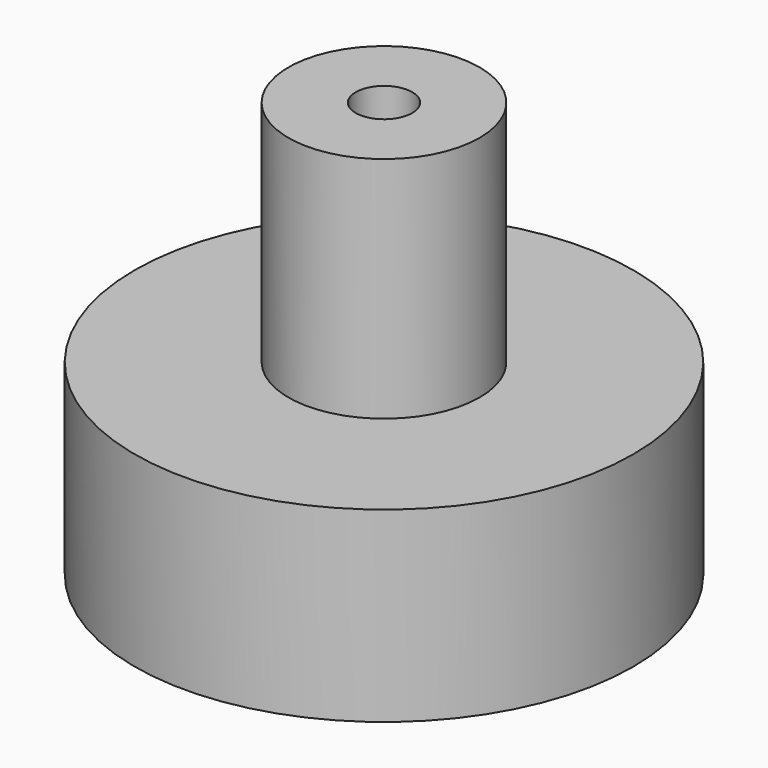
from build123d import *

# Parameters (mm, degrees)
PAD_DEPTH         = 3.5
CYLINDER_R        = 6
CYLINDER_DEPTH    = 4.5
CYLINDER001_R     = 2.3
CYLINDER001_DEPTH = 19
CYLINDER002_R     = 0.68
CYLINDER002_DEPTH = 23
BOX_W             = 10
BOX_H             = 10
BOX_DEPTH         = 12


with BuildPart() as body:
    # InvoluteGear → Pad (new body)
    with BuildSketch(Plane.XY):
        with BuildLine():
            add(Edge.make_bspline(
                [(2.683571, -0.321329), (2.575875, -0.238209), (2.484992, -0.192478), (2.420274, -0.167492)],
                knots=[0, 0, 0, 0, 1, 1, 1, 1], degree=3))
            add(Edge.make_bspline(
                [(2.420274, -0.167492), (2.369731, -0.148109), (2.336569, -0.141738), (2.322395, -0.139706)],
                knots=[0, 0, 0, 0, 1, 1, 1, 1], degree=3))
            ThreePointArc((2.322395, -0.139706), (2.318151, -9e-06), (2.322302, 0.139691))
            add(Edge.make_bspline(
                [(2.322302, 0.139691), (2.336569, 0.141738), (2.369731, 0.148109), (2.420274, 0.167492)],
                knots=[0, 0, 0, 0, 1, 1, 1, 1], degree=3))
            add(Edge.make_bspline(
                [(2.420274, 0.167492), (2.484992, 0.192478), (2.575875, 0.238209), (2.683571, 0.321329)],
                knots=[0, 0, 0, 0, 1, 1, 1, 1], degree=3))
            ThreePointArc((2.683571, 0.321329), (2.727109, 0.411046), (2.659061, 0.483943))
            add(Edge.make_bspline(
                [(2.659061, 0.483943), (2.53165, 0.531626), (2.431324, 0.548538), (2.362117, 0.553337)],
                knots=[0, 0, 0, 0, 1, 1, 1, 1], degree=3))
            add(Edge.make_bspline(
                [(2.362117, 0.553337), (2.308106, 0.556961), (2.274539, 0.553275), (2.260396, 0.551038)],
                knots=[0, 0, 0, 0, 1, 1, 1, 1], degree=3))
            ThreePointArc((2.260396, 0.551038), (2.215164, 0.683278), (2.177955, 0.817995))
            add(Edge.make_bspline(
                [(2.177955, 0.817995), (2.190983, 0.824157), (2.220794, 0.840019), (2.263378, 0.873439)],
                knots=[0, 0, 0, 0, 1, 1, 1, 1], degree=3))
            add(Edge.make_bspline(
                [(2.263378, 0.873439), (2.317857, 0.916391), (2.391223, 0.986879), (2.469634, 1.09805)],
                knots=[0, 0, 0, 0, 1, 1, 1, 1], degree=3))
            ThreePointArc((2.469634, 1.09805), (2.484793, 1.196613), (2.398281, 1.246215))
            add(Edge.make_bspline(
                [(2.398281, 1.246215), (2.262476, 1.254224), (2.161623, 1.240813), (2.094076, 1.225)],
                knots=[0, 0, 0, 0, 1, 1, 1, 1], degree=3))
            add(Edge.make_bspline(
                [(2.094076, 1.225), (2.041396, 1.212543), (2.010407, 1.199127), (1.997552, 1.192821)],
                knots=[0, 0, 0, 0, 1, 1, 1, 1], degree=3))
            ThreePointArc((1.997552, 1.192821), (1.915351, 1.305853), (1.840086, 1.423617))
            add(Edge.make_bspline(
                [(1.840086, 1.423617), (1.85072, 1.433345), (1.87453, 1.45729), (1.905372, 1.501777)],
                knots=[0, 0, 0, 0, 1, 1, 1, 1], degree=3))
            add(Edge.make_bspline(
                [(1.905372, 1.501777), (1.94477, 1.558878), (1.9941, 1.64786), (2.036259, 1.777204)],
                knots=[0, 0, 0, 0, 1, 1, 1, 1], degree=3))
            ThreePointArc((2.036259, 1.777204), (2.021693, 1.875857), (1.924404, 1.897755))
            add(Edge.make_bspline(
                [(1.924404, 1.897755), (1.792272, 1.865379), (1.699852, 1.822837), (1.639967, 1.787816)],
                knots=[0, 0, 0, 0, 1, 1, 1, 1], degree=3))
            add(Edge.make_bspline(
                [(1.639967, 1.787816), (1.593299, 1.760385), (1.567642, 1.738431), (1.557216, 1.728616)],
                knots=[0, 0, 0, 0, 1, 1, 1, 1], degree=3))
            ThreePointArc((1.557216, 1.728616), (1.44535, 1.812397), (1.338717, 1.902745))
            add(Edge.make_bspline(
                [(1.338717, 1.902745), (1.346011, 1.915175), (1.361706, 1.945075), (1.378065, 1.996676)],
                knots=[0, 0, 0, 0, 1, 1, 1, 1], degree=3))
            add(Edge.make_bspline(
                [(1.378065, 1.996676), (1.398882, 2.062853), (1.419792, 2.162422), (1.421954, 2.298445)],
                knots=[0, 0, 0, 0, 1, 1, 1, 1], degree=3))
            ThreePointArc((1.421954, 2.298445), (1.378956, 2.388422), (1.279535, 2.380671))
            add(Edge.make_bspline(
                [(1.279535, 2.380671), (1.162816, 2.310787), (1.087042, 2.242893), (1.040139, 2.191777)],
                knots=[0, 0, 0, 0, 1, 1, 1, 1], degree=3))
            add(Edge.make_bspline(
                [(1.040139, 2.191777), (1.003631, 2.15181), (0.985585, 2.123268), (0.978515, 2.110816)],
                knots=[0, 0, 0, 0, 1, 1, 1, 1], degree=3))
            ThreePointArc((0.978515, 2.110816), (0.846924, 2.157902), (0.718398, 2.212805))
            add(Edge.make_bspline(
                [(0.718398, 2.212805), (0.721704, 2.226833), (0.727889, 2.26003), (0.728311, 2.314161)],
                knots=[0, 0, 0, 0, 1, 1, 1, 1], degree=3))
            add(Edge.make_bspline(
                [(0.728311, 2.314161), (0.728697, 2.383533), (0.71933, 2.484842), (0.681302, 2.61546)],
                knots=[0, 0, 0, 0, 1, 1, 1, 1], degree=3))
            ThreePointArc((0.681302, 2.61546), (0.613693, 2.688766), (0.520974, 2.652054))
            add(Edge.make_bspline(
                [(0.520974, 2.652054), (0.430039, 2.550871), (0.377643, 2.463659), (0.347891, 2.400989)],
                knots=[0, 0, 0, 0, 1, 1, 1, 1], degree=3))
            add(Edge.make_bspline(
                [(0.347891, 2.400989), (0.324785, 2.352036), (0.315954, 2.319443), (0.312869, 2.30546)],
                knots=[0, 0, 0, 0, 1, 1, 1, 1], degree=3))
            ThreePointArc((0.312869, 2.30546), (0.173245, 2.311668), (0.034246, 2.326248))
            add(Edge.make_bspline(
                [(0.034246, 2.326248), (0.03327, 2.340627), (0.029395, 2.374173), (0.013843, 2.426023)],
                knots=[0, 0, 0, 0, 1, 1, 1, 1], degree=3))
            add(Edge.make_bspline(
                [(0.013843, 2.426023), (-0.006236, 2.492427), (-0.045048, 2.586474), (-0.119887, 2.70008)],
                knots=[0, 0, 0, 0, 1, 1, 1, 1], degree=3))
            ThreePointArc((-0.119887, 2.70008), (-0.206099, 2.750201), (-0.283878, 2.68779))
            add(Edge.make_bspline(
                [(-0.283878, 2.68779), (-0.340949, 2.564299), (-0.365311, 2.465518), (-0.375269, 2.396863)],
                knots=[0, 0, 0, 0, 1, 1, 1, 1], degree=3))
            add(Edge.make_bspline(
                [(-0.375269, 2.396863), (-0.382919, 2.343274), (-0.381751, 2.309526), (-0.380578, 2.295255)],
                knots=[0, 0, 0, 0, 1, 1, 1, 1], degree=3))
            ThreePointArc((-0.380578, 2.295255), (-0.515828, 2.260032), (-0.652949, 2.232993))
            add(Edge.make_bspline(
                [(-0.652949, 2.232993), (-0.65812, 2.246446), (-0.67171, 2.277359), (-0.701854, 2.322322)],
                knots=[0, 0, 0, 0, 1, 1, 1, 1], degree=3))
            add(Edge.make_bspline(
                [(-0.701854, 2.322322), (-0.740615, 2.379857), (-0.805423, 2.458286), (-0.910423, 2.544786)],
                knots=[0, 0, 0, 0, 1, 1, 1, 1], degree=3))
            ThreePointArc((-0.910423, 2.544786), (-1.007579, 2.567269), (-1.063506, 2.484705))
            add(Edge.make_bspline(
                [(-1.063506, 2.484705), (-1.081642, 2.349878), (-1.075805, 2.248305), (-1.065084, 2.179765)],
                knots=[0, 0, 0, 0, 1, 1, 1, 1], degree=3))
            add(Edge.make_bspline(
                [(-1.065084, 2.179765), (-1.056599, 2.126301), (-1.045536, 2.094397), (-1.040208, 2.081106)],
                knots=[0, 0, 0, 0, 1, 1, 1, 1], degree=3))
            ThreePointArc((-1.040208, 2.081106), (-1.159067, 2.007582), (-1.282127, 1.941328))
            add(Edge.make_bspline(
                [(-1.282127, 1.941328), (-1.291033, 1.952659), (-1.313132, 1.978192), (-1.355189, 2.012272)],
                knots=[0, 0, 0, 0, 1, 1, 1, 1], degree=3))
            add(Edge.make_bspline(
                [(-1.355189, 2.012272), (-1.409186, 2.055827), (-1.494233, 2.111669), (-1.620064, 2.163376)],
                knots=[0, 0, 0, 0, 1, 1, 1, 1], degree=3))
            ThreePointArc((-1.620064, 2.163376), (-1.71953, 2.156223), (-1.748637, 2.060842))
            add(Edge.make_bspline(
                [(-1.748637, 2.060842), (-1.726227, 1.92666), (-1.69071, 1.83132), (-1.660262, 1.768985)],
                knots=[0, 0, 0, 0, 1, 1, 1, 1], degree=3))
            add(Edge.make_bspline(
                [(-1.660262, 1.768985), (-1.636396, 1.720398), (-1.61642, 1.693172), (-1.607411, 1.682042)],
                knots=[0, 0, 0, 0, 1, 1, 1, 1], degree=3))
            ThreePointArc((-1.607411, 1.682042), (-1.699318, 1.57675), (-1.797382, 1.477166))
            add(Edge.make_bspline(
                [(-1.797382, 1.477166), (-1.809232, 1.485369), (-1.837875, 1.503254), (-1.88811, 1.523424)],
                knots=[0, 0, 0, 0, 1, 1, 1, 1], degree=3))
            add(Edge.make_bspline(
                [(-1.88811, 1.523424), (-1.952546, 1.549127), (-2.050274, 1.57742), (-2.185756, 1.589741)],
                knots=[0, 0, 0, 0, 1, 1, 1, 1], degree=3))
            ThreePointArc((-2.185756, 1.589741), (-2.278694, 1.553588), (-2.278394, 1.453865))
            add(Edge.make_bspline(
                [(-2.278394, 1.453865), (-2.217428, 1.33225), (-2.155387, 1.251614), (-2.107919, 1.201023)],
                knots=[0, 0, 0, 0, 1, 1, 1, 1], degree=3))
            add(Edge.make_bspline(
                [(-2.107919, 1.201023), (-2.070791, 1.161629), (-2.043678, 1.141501), (-2.031789, 1.13352)],
                knots=[0, 0, 0, 0, 1, 1, 1, 1], degree=3))
            ThreePointArc((-2.031789, 1.13352), (-2.088577, 1.005816), (-2.152932, 0.881752))
            add(Edge.make_bspline(
                [(-2.152932, 0.881752), (-2.166673, 0.886098), (-2.199316, 0.894746), (-2.253263, 0.899212)],
                knots=[0, 0, 0, 0, 1, 1, 1, 1], degree=3))
            add(Edge.make_bspline(
                [(-2.253263, 0.899212), (-2.322413, 0.904781), (-2.424139, 0.903011), (-2.557233, 0.87485)],
                knots=[0, 0, 0, 0, 1, 1, 1, 1], degree=3))
            ThreePointArc((-2.557233, 0.87485), (-2.635386, 0.812909), (-2.605706, 0.717705))
            add(Edge.make_bspline(
                [(-2.605706, 0.717705), (-2.511602, 0.619463), (-2.428549, 0.560697), (-2.368278, 0.526345)],
                knots=[0, 0, 0, 0, 1, 1, 1, 1], degree=3))
            add(Edge.make_bspline(
                [(-2.368278, 0.526345), (-2.321188, 0.499645), (-2.289346, 0.488402), (-2.275633, 0.484281)],
                knots=[0, 0, 0, 0, 1, 1, 1, 1], degree=3))
            ThreePointArc((-2.275633, 0.484281), (-2.292257, 0.345512), (-2.317184, 0.207991))
            add(Edge.make_bspline(
                [(-2.317184, 0.207991), (-2.331596, 0.208093), (-2.365337, 0.206735), (-2.418205, 0.195101)],
                knots=[0, 0, 0, 0, 1, 1, 1, 1], degree=3))
            add(Edge.make_bspline(
                [(-2.418205, 0.195101), (-2.485924, 0.180041), (-2.582608, 0.148365), (-2.701489, 0.082226)],
                knots=[0, 0, 0, 0, 1, 1, 1, 1], degree=3))
            ThreePointArc((-2.701489, 0.082226), (-2.757913, 0), (-2.701489, -0.082226))
            add(Edge.make_bspline(
                [(-2.701489, -0.082226), (-2.582608, -0.148365), (-2.485924, -0.180041), (-2.418205, -0.195101)],
                knots=[0, 0, 0, 0, 1, 1, 1, 1], degree=3))
            add(Edge.make_bspline(
                [(-2.418205, -0.195101), (-2.365337, -0.206735), (-2.331596, -0.208093), (-2.317278, -0.207989)],
                knots=[0, 0, 0, 0, 1, 1, 1, 1], degree=3))
            ThreePointArc((-2.317278, -0.207989), (-2.29226, -0.345493), (-2.275544, -0.484252))
            add(Edge.make_bspline(
                [(-2.275544, -0.484252), (-2.289346, -0.488402), (-2.321188, -0.499645), (-2.368278, -0.526345)],
                knots=[0, 0, 0, 0, 1, 1, 1, 1], degree=3))
            add(Edge.make_bspline(
                [(-2.368278, -0.526345), (-2.428549, -0.560697), (-2.511602, -0.619463), (-2.605706, -0.717705)],
                knots=[0, 0, 0, 0, 1, 1, 1, 1], degree=3))
            ThreePointArc((-2.605706, -0.717705), (-2.635386, -0.812909), (-2.557233, -0.87485))
            add(Edge.make_bspline(
                [(-2.557233, -0.87485), (-2.424139, -0.903011), (-2.322413, -0.904781), (-2.253263, -0.899212)],
                knots=[0, 0, 0, 0, 1, 1, 1, 1], degree=3))
            add(Edge.make_bspline(
                [(-2.253263, -0.899212), (-2.199316, -0.894746), (-2.166673, -0.886098), (-2.153022, -0.881778)],
                knots=[0, 0, 0, 0, 1, 1, 1, 1], degree=3))
            ThreePointArc((-2.153022, -0.881778), (-2.088585, -1.005799), (-2.031713, -1.133466))
            add(Edge.make_bspline(
                [(-2.031713, -1.133466), (-2.043678, -1.141501), (-2.070791, -1.161629), (-2.107919, -1.201023)],
                knots=[0, 0, 0, 0, 1, 1, 1, 1], degree=3))
            add(Edge.make_bspline(
                [(-2.107919, -1.201023), (-2.155387, -1.251614), (-2.217428, -1.33225), (-2.278394, -1.453865)],
                knots=[0, 0, 0, 0, 1, 1, 1, 1], degree=3))
            ThreePointArc((-2.278394, -1.453865), (-2.278694, -1.553588), (-2.185756, -1.589741))
            add(Edge.make_bspline(
                [(-2.185756, -1.589741), (-2.050274, -1.57742), (-1.952546, -1.549127), (-1.88811, -1.523424)],
                knots=[0, 0, 0, 0, 1, 1, 1, 1], degree=3))
            add(Edge.make_bspline(
                [(-1.88811, -1.523424), (-1.837875, -1.503254), (-1.809232, -1.485369), (-1.79746, -1.477217)],
                knots=[0, 0, 0, 0, 1, 1, 1, 1], degree=3))
            ThreePointArc((-1.79746, -1.477217), (-1.699331, -1.576736), (-1.607354, -1.681967))
            add(Edge.make_bspline(
                [(-1.607354, -1.681967), (-1.61642, -1.693172), (-1.636396, -1.720398), (-1.660262, -1.768985)],
                knots=[0, 0, 0, 0, 1, 1, 1, 1], degree=3))
            add(Edge.make_bspline(
                [(-1.660262, -1.768985), (-1.69071, -1.83132), (-1.726227, -1.92666), (-1.748637, -2.060842)],
                knots=[0, 0, 0, 0, 1, 1, 1, 1], degree=3))
            ThreePointArc((-1.748637, -2.060842), (-1.71953, -2.156223), (-1.620064, -2.163376))
            add(Edge.make_bspline(
                [(-1.620064, -2.163376), (-1.494233, -2.111669), (-1.409186, -2.055827), (-1.355189, -2.012272)],
                knots=[0, 0, 0, 0, 1, 1, 1, 1], degree=3))
            add(Edge.make_bspline(
                [(-1.355189, -2.012272), (-1.313132, -1.978192), (-1.291033, -1.952659), (-1.282187, -1.9414)],
                knots=[0, 0, 0, 0, 1, 1, 1, 1], degree=3))
            ThreePointArc((-1.282187, -1.9414), (-1.159083, -2.007573), (-1.040176, -2.081018))
            add(Edge.make_bspline(
                [(-1.040176, -2.081018), (-1.045536, -2.094397), (-1.056599, -2.126301), (-1.065084, -2.179765)],
                knots=[0, 0, 0, 0, 1, 1, 1, 1], degree=3))
            add(Edge.make_bspline(
                [(-1.065084, -2.179765), (-1.075805, -2.248305), (-1.081642, -2.349878), (-1.063506, -2.484705)],
                knots=[0, 0, 0, 0, 1, 1, 1, 1], degree=3))
            ThreePointArc((-1.063506, -2.484705), (-1.007579, -2.567269), (-0.910423, -2.544786))
            add(Edge.make_bspline(
                [(-0.910423, -2.544786), (-0.805423, -2.458286), (-0.740615, -2.379857), (-0.701854, -2.322322)],
                knots=[0, 0, 0, 0, 1, 1, 1, 1], degree=3))
            add(Edge.make_bspline(
                [(-0.701854, -2.322322), (-0.67171, -2.277359), (-0.65812, -2.246446), (-0.652985, -2.23308)],
                knots=[0, 0, 0, 0, 1, 1, 1, 1], degree=3))
            ThreePointArc((-0.652985, -2.23308), (-0.515846, -2.260028), (-0.380573, -2.295162))
            add(Edge.make_bspline(
                [(-0.380573, -2.295162), (-0.381751, -2.309526), (-0.382919, -2.343274), (-0.375269, -2.396863)],
                knots=[0, 0, 0, 0, 1, 1, 1, 1], degree=3))
            add(Edge.make_bspline(
                [(-0.375269, -2.396863), (-0.365311, -2.465518), (-0.340949, -2.564299), (-0.283878, -2.68779)],
                knots=[0, 0, 0, 0, 1, 1, 1, 1], degree=3))
            ThreePointArc((-0.283878, -2.68779), (-0.206099, -2.750201), (-0.119887, -2.70008))
            add(Edge.make_bspline(
                [(-0.119887, -2.70008), (-0.045048, -2.586474), (-0.006236, -2.492427), (0.013843, -2.426023)],
                knots=[0, 0, 0, 0, 1, 1, 1, 1], degree=3))
            add(Edge.make_bspline(
                [(0.013843, -2.426023), (0.029395, -2.374173), (0.03327, -2.340627), (0.034237, -2.326341)],
                knots=[0, 0, 0, 0, 1, 1, 1, 1], degree=3))
            ThreePointArc((0.034237, -2.326341), (0.173226, -2.311669), (0.312846, -2.30537))
            add(Edge.make_bspline(
                [(0.312846, -2.30537), (0.315954, -2.319443), (0.324785, -2.352036), (0.347891, -2.400989)],
                knots=[0, 0, 0, 0, 1, 1, 1, 1], degree=3))
            add(Edge.make_bspline(
                [(0.347891, -2.400989), (0.377643, -2.463659), (0.430039, -2.550871), (0.520974, -2.652054)],
                knots=[0, 0, 0, 0, 1, 1, 1, 1], degree=3))
            ThreePointArc((0.520974, -2.652054), (0.613693, -2.688766), (0.681302, -2.61546))
            add(Edge.make_bspline(
                [(0.681302, -2.61546), (0.71933, -2.484842), (0.728697, -2.383533), (0.728311, -2.314161)],
                knots=[0, 0, 0, 0, 1, 1, 1, 1], degree=3))
            add(Edge.make_bspline(
                [(0.728311, -2.314161), (0.727889, -2.26003), (0.721704, -2.226833), (0.718417, -2.212897)],
                knots=[0, 0, 0, 0, 1, 1, 1, 1], degree=3))
            ThreePointArc((0.718417, -2.212897), (0.846907, -2.157909), (0.978467, -2.110736))
            add(Edge.make_bspline(
                [(0.978467, -2.110736), (0.985585, -2.123268), (1.003631, -2.15181), (1.040139, -2.191777)],
                knots=[0, 0, 0, 0, 1, 1, 1, 1], degree=3))
            add(Edge.make_bspline(
                [(1.040139, -2.191777), (1.087042, -2.242893), (1.162816, -2.310787), (1.279535, -2.380671)],
                knots=[0, 0, 0, 0, 1, 1, 1, 1], degree=3))
            ThreePointArc((1.279535, -2.380671), (1.378956, -2.388422), (1.421954, -2.298445))
            add(Edge.make_bspline(
                [(1.421954, -2.298445), (1.419792, -2.162422), (1.398882, -2.062853), (1.378065, -1.996676)],
                knots=[0, 0, 0, 0, 1, 1, 1, 1], degree=3))
            add(Edge.make_bspline(
                [(1.378065, -1.996676), (1.361706, -1.945075), (1.346011, -1.915175), (1.338762, -1.902827)],
                knots=[0, 0, 0, 0, 1, 1, 1, 1], degree=3))
            ThreePointArc((1.338762, -1.902827), (1.445336, -1.812409), (1.557146, -1.728553))
            add(Edge.make_bspline(
                [(1.557146, -1.728553), (1.567642, -1.738431), (1.593299, -1.760385), (1.639967, -1.787816)],
                knots=[0, 0, 0, 0, 1, 1, 1, 1], degree=3))
            add(Edge.make_bspline(
                [(1.639967, -1.787816), (1.699852, -1.822837), (1.792272, -1.865379), (1.924404, -1.897755)],
                knots=[0, 0, 0, 0, 1, 1, 1, 1], degree=3))
            ThreePointArc((1.924404, -1.897755), (2.021693, -1.875857), (2.036259, -1.777204))
            add(Edge.make_bspline(
                [(2.036259, -1.777204), (1.9941, -1.64786), (1.94477, -1.558878), (1.905372, -1.501777)],
                knots=[0, 0, 0, 0, 1, 1, 1, 1], degree=3))
            add(Edge.make_bspline(
                [(1.905372, -1.501777), (1.87453, -1.45729), (1.85072, -1.433345), (1.840153, -1.423682)],
                knots=[0, 0, 0, 0, 1, 1, 1, 1], degree=3))
            ThreePointArc((1.840153, -1.423682), (1.915341, -1.305868), (1.997467, -1.192782))
            add(Edge.make_bspline(
                [(1.997467, -1.192782), (2.010407, -1.199127), (2.041396, -1.212543), (2.094076, -1.225)],
                knots=[0, 0, 0, 0, 1, 1, 1, 1], degree=3))
            add(Edge.make_bspline(
                [(2.094076, -1.225), (2.161623, -1.240813), (2.262476, -1.254224), (2.398281, -1.246215)],
                knots=[0, 0, 0, 0, 1, 1, 1, 1], degree=3))
            ThreePointArc((2.398281, -1.246215), (2.484793, -1.196613), (2.469634, -1.09805))
            add(Edge.make_bspline(
                [(2.469634, -1.09805), (2.391223, -0.986879), (2.317857, -0.916391), (2.263378, -0.873439)],
                knots=[0, 0, 0, 0, 1, 1, 1, 1], degree=3))
            add(Edge.make_bspline(
                [(2.263378, -0.873439), (2.220794, -0.840019), (2.190983, -0.824157), (2.178038, -0.818038)],
                knots=[0, 0, 0, 0, 1, 1, 1, 1], degree=3))
            ThreePointArc((2.178038, -0.818038), (2.215159, -0.683296), (2.260304, -0.551026))
            add(Edge.make_bspline(
                [(2.260304, -0.551026), (2.274539, -0.553275), (2.308106, -0.556961), (2.362117, -0.553337)],
                knots=[0, 0, 0, 0, 1, 1, 1, 1], degree=3))
            add(Edge.make_bspline(
                [(2.362117, -0.553337), (2.431324, -0.548538), (2.53165, -0.531626), (2.659061, -0.483943)],
                knots=[0, 0, 0, 0, 1, 1, 1, 1], degree=3))
            ThreePointArc((2.659061, -0.483943), (2.727109, -0.411046), (2.683571, -0.321329))
        make_face()
    extrude(amount=PAD_DEPTH)


with BuildPart() as body001:
    # Cylinder → Cylinder (join)
    with BuildSketch(Plane.XY):
        Circle(CYLINDER_R)
    extrude(amount=CYLINDER_DEPTH)

    # Boolean: cut Body
    add(body.part, mode=Mode.SUBTRACT)

    # Cylinder001 → Cylinder001 (join)
    with BuildSketch(Plane.XY.offset(3)):
        Circle(CYLINDER001_R)
    extrude(amount=CYLINDER001_DEPTH)

    # Cylinder002 → Cylinder002 (cut)
    with BuildSketch(Plane.XY):
        Circle(CYLINDER002_R)
    extrude(amount=CYLINDER002_DEPTH, mode=Mode.SUBTRACT)

    # Box → Box (cut)
    with BuildSketch(Plane(origin=(-5, -5, 10), x_dir=(1, 0, 0), z_dir=(0, 0, 1))):
        with Locations((5, 5)):
            Rectangle(BOX_W, BOX_H)
    extrude(amount=BOX_DEPTH, mode=Mode.SUBTRACT)


solid = body001.part
